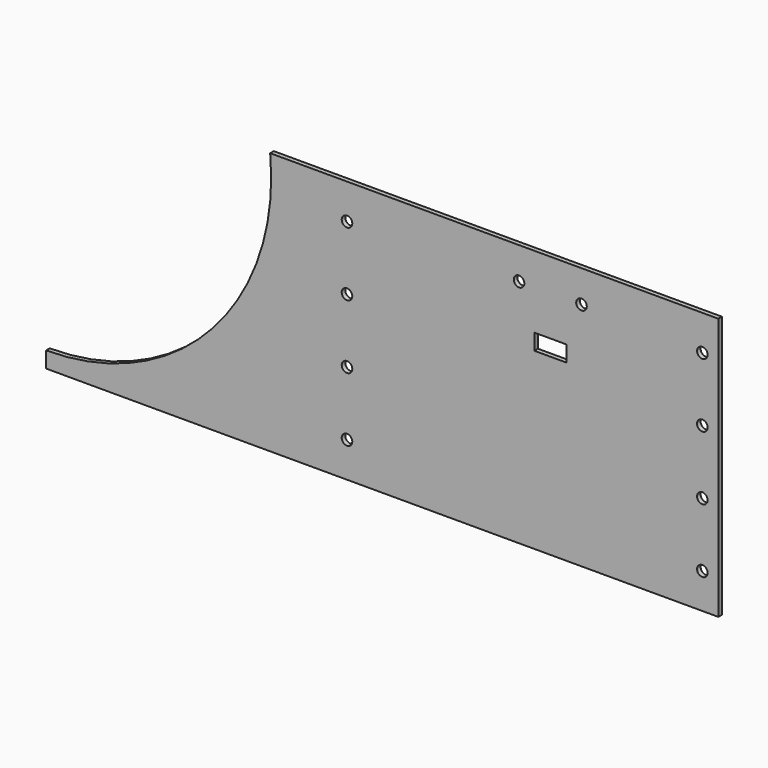
from build123d import *

# Parameters (mm, degrees)
PAD_DEPTH       = 0.7
PAD_DEPTH_BACK  = 0.7
SKETCH001_R     = 1.65
POCKET_DEPTH    = 1.401
SKETCH002_R     = 1.65
SKETCH002_W     = 10
SKETCH002_H     = 5
POCKET001_DEPTH = 1.401


with BuildPart() as part:
    # Sketch → Pad (new body, two sides)
    with BuildSketch(Plane.XZ) as pad_sk:
        with BuildLine():
            Line((-105, -41), (-105, -36))
            ThreePointArc((-105, -36), (-52.968759, -12.982946), (-35, 41))
            Line((-35, 41), (105, 41))
            Line((105, 41), (105, -41))
            Line((105, -41), (-105, -41))
        make_face()
    extrude(amount=PAD_DEPTH)
    extrude(pad_sk.sketch, amount=-PAD_DEPTH_BACK)

    # Sketch001 (on Face7 of Pad) → Pocket (cut, through all)
    with BuildSketch(Plane.XZ.offset(0.7)):
        with Locations((100, 30)):
            Circle(SKETCH001_R)
        with Locations((100, 10)):
            Circle(SKETCH001_R)
        with Locations((-11, 30)):
            Circle(SKETCH001_R)
        with Locations((-11, 10)):
            Circle(SKETCH001_R)
        with Locations((100, -30)):
            Circle(SKETCH001_R)
        with Locations((100, -10)):
            Circle(SKETCH001_R)
        with Locations((-11, -30)):
            Circle(SKETCH001_R)
        with Locations((-11, -10)):
            Circle(SKETCH001_R)
    extrude(amount=-POCKET_DEPTH, mode=Mode.SUBTRACT)

    # Sketch002 (on Face5 of Pocket) → Pocket001 (cut, through all)
    with BuildSketch(Plane.XZ.offset(0.7)):
        with Locations((42.75, 31)):
            Circle(SKETCH002_R)
        with Locations((62.25, 31)):
            Circle(SKETCH002_R)
        with Locations((52.5, 16)):
            Rectangle(SKETCH002_W, SKETCH002_H)
    extrude(amount=-POCKET001_DEPTH, mode=Mode.SUBTRACT)


solid = part.part
